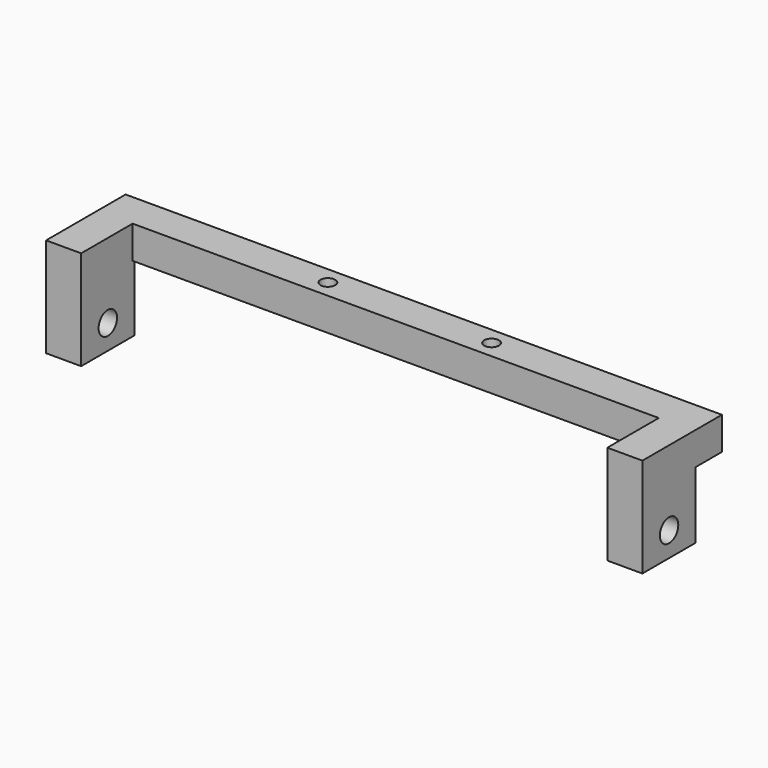
from build123d import *

# Parameters (mm, degrees)
PAD_DEPTH     = 3.556
SKETCH001_W   = 7.239
SKETCH001_H   = 7.239
PAD001_DEPTH  = 3.81
SKETCH002_W   = 7.239
SKETCH002_H   = 7.239
PAD002_DEPTH  = 3.81
SKETCH003_R   = 1.25
HOLE_DEPTH    = 64.771
SKETCH004_R   = 0.8
HOLE001_DEPTH = 24.892


with BuildPart() as part:
    # Sketch → Pad (new body)
    with BuildSketch(Plane.XY):
        Polygon((-32.385, 0), (-32.385, -10.795), (-28.575, -10.795), (-28.575, -3.81), (28.575, -3.81), (28.575, -10.795), (32.385, -10.795), (32.385, 0), align=None)
    extrude(amount=PAD_DEPTH)

    # Sketch001 (on Face1 of Pad) → Pad001 (join)
    with BuildSketch(Plane(origin=(-32.385, 0, 0), x_dir=(0, -1, 0), z_dir=(-1, 0, 0))):
        with Locations((7.1755, -3.6195)):
            Rectangle(SKETCH001_W, SKETCH001_H)
    extrude(amount=-PAD001_DEPTH)

    # Sketch002 (on Face4 of Pad001) → Pad002 (join)
    with BuildSketch(Plane.YZ.offset(32.385)):
        with Locations((-7.1755, -3.6195)):
            Rectangle(SKETCH002_W, SKETCH002_H)
    extrude(amount=-PAD002_DEPTH)

    # Sketch003 (on Face12 of Pad002) → Hole (cut, through all)
    with BuildSketch(Plane.YZ.offset(32.385)):
        with Locations((-7.1755, -4.572)):
            Circle(SKETCH003_R)
    extrude(amount=-HOLE_DEPTH, mode=Mode.SUBTRACT)

    # Sketch004 (on Face5 of Hole) → Hole001 (cut)
    with BuildSketch(Plane.XY.offset(3.556)):
        with Locations((-8.89, -1.905)):
            Circle(SKETCH004_R)
        with Locations((8.89, -1.905)):
            Circle(SKETCH004_R)
    extrude(amount=-HOLE001_DEPTH, mode=Mode.SUBTRACT)


solid = part.part
